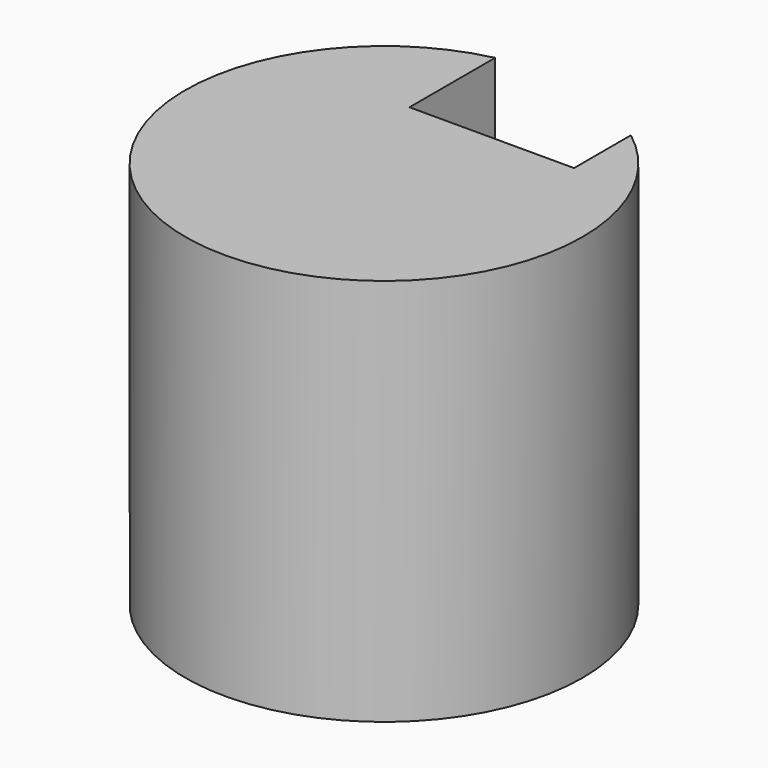
from build123d import *

# Parameters (mm, degrees)
F0_R     = 70.0272958954
F1_DEPTH = 136.8249431252
F3_DEPTH = 71.7620179057


with BuildPart() as f1:
    # F0 (on Top) → F1 (new body)
    with BuildSketch(Plane.XY):
        with Locations((-99.5228290558, -275.4988670349)):
            Circle(F0_R)
    extrude(amount=F1_DEPTH)

    # F2 (on face) → F3 (cut)
    with BuildSketch(Plane.XY.offset(136.8249431252)):
        with BuildLine():
            ThreePointArc((-56.9748058915, -219.8797345782), (-84.5687940305, -207.0868870396), (-114.9837970734, -207.1996676371))
            Line((-114.9837970734, -207.1996676371), (-114.9837970734, -244.9410408735))
            Line((-114.9837970734, -244.9410408735), (-56.9748058915, -244.9410408735))
            Line((-56.9748058915, -244.9410408735), (-56.9748058915, -219.8797345782))
        make_face()
    extrude(amount=-F3_DEPTH, mode=Mode.SUBTRACT)


solid = f1.part
